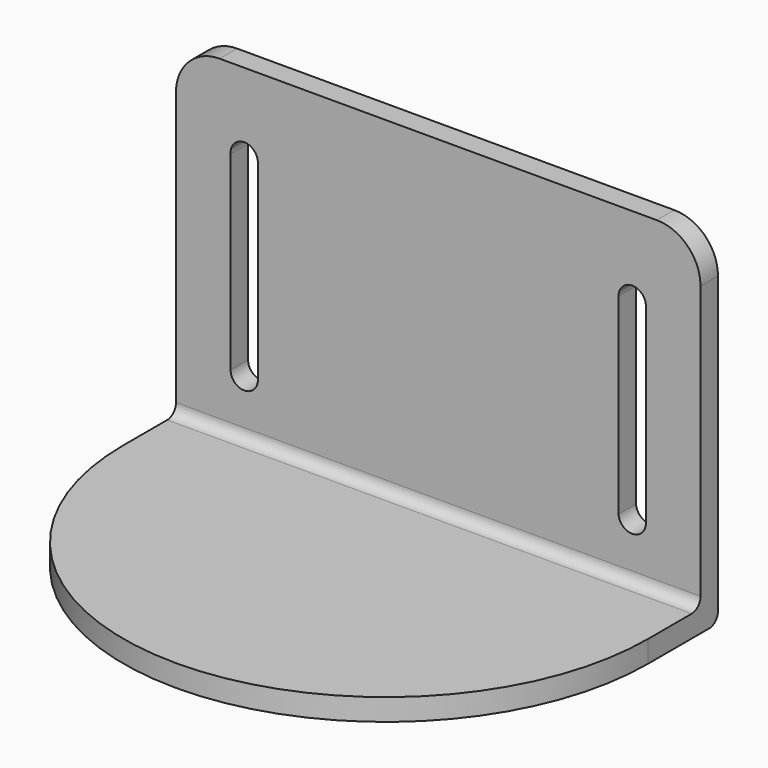
from build123d import *

# Parameters (mm, degrees)
F1_DEPTH = 6.35
F3_DEPTH = 6.35
F4_R     = 3.175


with BuildPart() as f1:
    # F0 (on Front) → F1 (new body)
    with BuildSketch(Plane.XZ):
        with BuildLine():
            Line((0, 88.9), (0, 0))
            Line((0, 0), (152.4, 0))
            Line((152.4, 0), (152.4, 88.9))
            ThreePointArc((152.4, 88.9), (148.680256, 97.880256), (139.7, 101.6))
            Line((139.7, 101.6), (12.7, 101.6))
            ThreePointArc((12.7, 101.6), (3.719744, 97.880256), (0, 88.9))
        make_face()
        with BuildLine():
            ThreePointArc((15.875, 78.277995), (19.680409, 82.547098), (23.800897, 78.58125))
            Line((23.800897, 78.58125), (23.800897, 22.784778))
            ThreePointArc((23.800897, 22.784778), (19.721844, 19.051731), (15.8703, 23.019088))
            Line((15.8703, 23.019088), (15.875, 78.277995))
        make_face(mode=Mode.SUBTRACT)
        with BuildLine():
            Line((128.599103, 22.784778), (128.599103, 78.58125))
            ThreePointArc((128.599103, 78.58125), (132.719591, 82.547098), (136.525, 78.277995))
            Line((136.525, 78.277995), (136.5297, 23.019088))
            ThreePointArc((136.5297, 23.019088), (132.678156, 19.051731), (128.599103, 22.784778))
        make_face(mode=Mode.SUBTRACT)
    extrude(amount=F1_DEPTH)

    # F2 (on face) → F3 (join)
    with BuildSketch(Plane(origin=(0, 0, 0), x_dir=(1, 0, 0), z_dir=(0, 0, -1))):
        with BuildLine():
            Line((0, 0), (152.4, 0))
            Line((152.4, 0), (152.4, 25.4))
            ThreePointArc((152.4, 25.4), (76.2, 101.6), (0, 25.4))
            Line((0, 25.4), (0, 0))
        make_face()
    extrude(amount=-F3_DEPTH)

    # F4
    f4_edges = [f1.edges().sort_by_distance(p)[0] for p in [
        (76.2, 0, 0),
        (76.2, -6.35, 6.35),
    ]]
    fillet(f4_edges, radius=F4_R)


solid = f1.part
